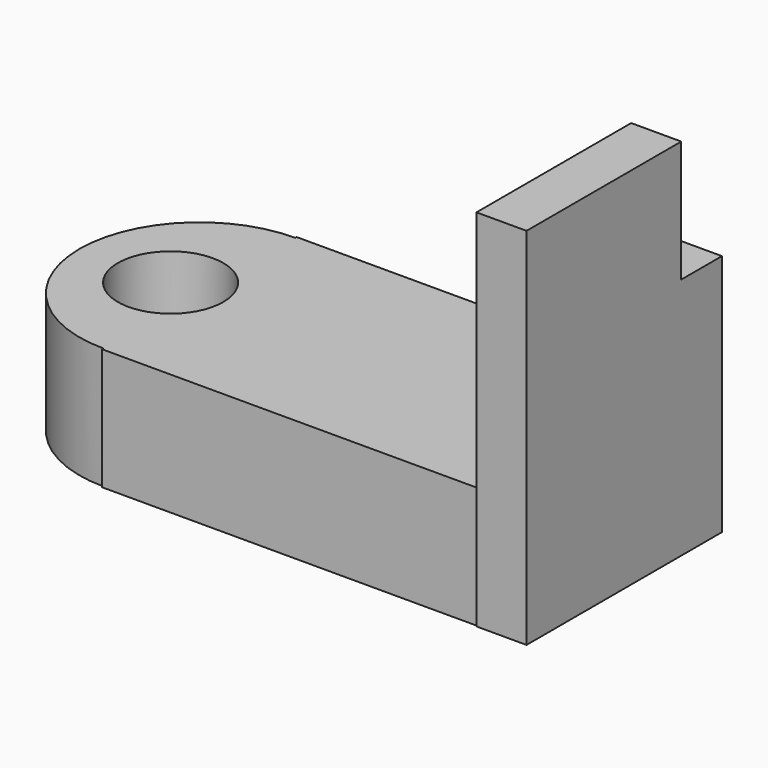
from build123d import *

# Parameters (mm, degrees)
F1_DEPTH = 25.4
F2_R     = 11.0288087202
F3_DEPTH = 25.4
F4_W     = 9.8473913968
F4_H     = 10.6680002064
F6_DEPTH = 50.8
F5_W     = 10.4628503323
F5_H     = 40.4153093696
F7_DEPTH = 76.2


with BuildPart() as f1:
    # F0 (on Top) → F1 (new body)
    with BuildSketch(Plane.XY):
        with BuildLine():
            Line((-44.45, -25.4), (44.45, -25.4))
            Line((44.45, -25.4), (44.45, 25.4))
            Line((44.45, 25.4), (-44.45, 25.4))
            Line((-44.45, 25.4), (-44.45, 25.0481939564))
            ThreePointArc((-44.45, 25.0481939564), (-26.738252197, 17.711747803), (-19.4018060436, 0))
            ThreePointArc((-19.4018060436, 0), (-26.738252197, -17.711747803), (-44.45, -25.0481939564))
            Line((-44.45, -25.0481939564), (-44.45, -25.4))
        make_face()
        with BuildLine():
            ThreePointArc((-44.45, 25.0481939564), (-69.4981939564, 0), (-44.45, -25.0481939564))
            Line((-44.45, -25.0481939564), (-44.45, 25.0481939564))
        make_face()
        with BuildLine():
            Line((-44.45, 25.0481939564), (-44.45, -25.0481939564))
            ThreePointArc((-44.45, -25.0481939564), (-26.738252197, -17.711747803), (-19.4018060436, 0))
            ThreePointArc((-19.4018060436, 0), (-26.738252197, 17.711747803), (-44.45, 25.0481939564))
        make_face()
    extrude(amount=F1_DEPTH)

    # F2 (on Top) → F3 (cut)
    with BuildSketch(Plane.XY):
        with Locations((-50.4678487778, 0)):
            Circle(F2_R)
    extrude(amount=F3_DEPTH, mode=Mode.SUBTRACT)

    # F4 (on Top) → F6 (join)
    with BuildSketch(Plane.XY):
        with Locations((39.5263043016, 20.0659998968)):
            Rectangle(F4_W, F4_H)
    extrude(amount=F6_DEPTH)

    # F5 (on Top) → F7 (join)
    with BuildSketch(Plane.XY):
        with Locations((39.2185748339, -5.4365769029)):
            Rectangle(F5_W, F5_H)
    extrude(amount=F7_DEPTH)


solid = f1.part
